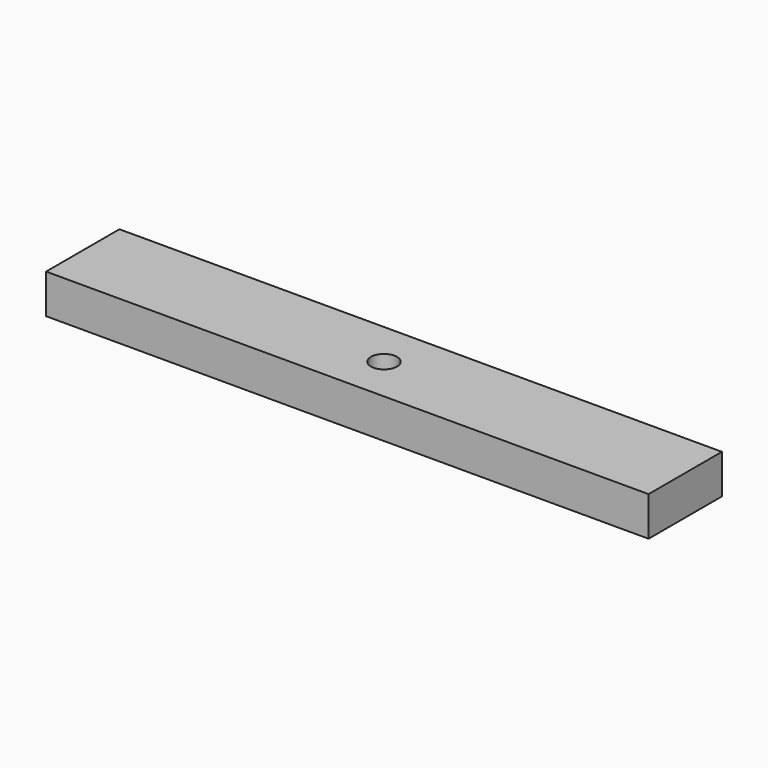
from build123d import *

# Parameters (mm, degrees)
F0_W     = 584.2
F0_H     = 88.9
F0_R     = 12.7
F1_DEPTH = 19.05


with BuildPart() as f1:
    # F0 (on Top) → F1 (new body, symmetric)
    with BuildSketch(Plane.XY):
        with Locations((0.9778998792, 37.7794563284)):
            Rectangle(F0_W, F0_H)
        with Locations((0.9778998792, 37.7794563284)):
            Circle(F0_R, mode=Mode.SUBTRACT)
    extrude(amount=F1_DEPTH, both=True)


solid = f1.part
